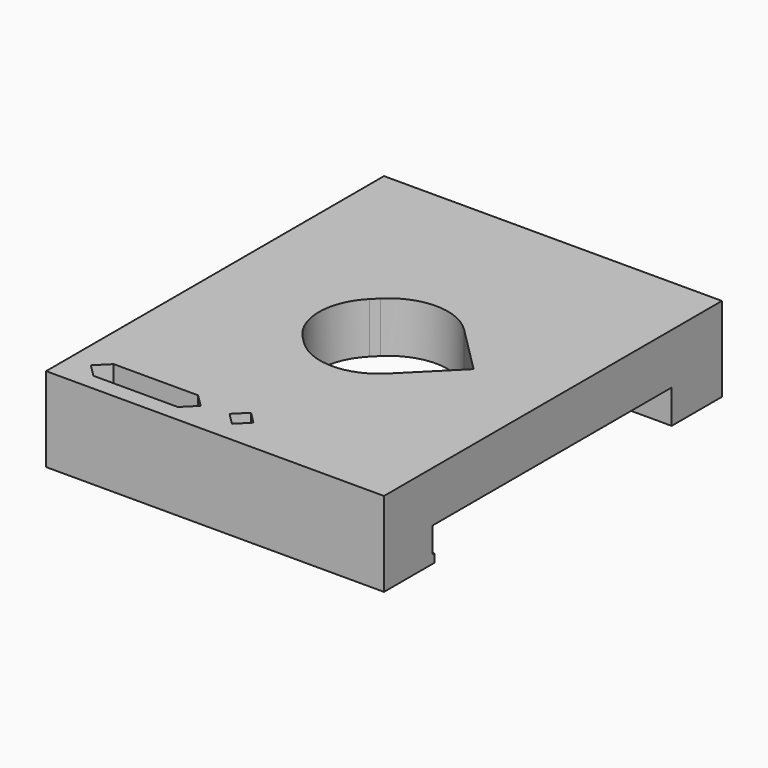
from build123d import *

# Parameters (mm, degrees)
SKETCH_W        = 80
SKETCH_H        = 100
PAD_DEPTH       = 20
SKETCH001_W     = 100
SKETCH001_H     = 70.25
POCKET_DEPTH    = 8
POCKET001_DEPTH = 20.001
POCKET002_DEPTH = 20.001
FILLET_R        = 14
SKETCH004_W     = 200
SKETCH004_H     = 6
POCKET003_DEPTH = 0.5


with BuildPart() as part:
    # Sketch → Pad (new body)
    with BuildSketch(Plane.XY):
        Rectangle(SKETCH_W, SKETCH_H)
    extrude(amount=PAD_DEPTH)

    # Sketch001 → Pocket (cut)
    with BuildSketch(Plane(origin=(0, 0, 0), x_dir=(1, 0, 0), z_dir=(0, 0, -1))):
        Rectangle(SKETCH001_W, SKETCH001_H)
    extrude(amount=-POCKET_DEPTH, mode=Mode.SUBTRACT)

    # Sketch002 → Pocket001 (cut, through all)
    with BuildSketch(Plane(origin=(0, 0, 0), x_dir=(1, 0, 0), z_dir=(0, 0, -1))):
        Polygon((-32, 46), (-12, 46), (-9, 43), (-12, 40), (-32, 40), (-35, 43), align=None)
        Polygon((0, 45), (-2.828427, 42.171573), (0, 39.343146), (2.828427, 42.171573), align=None)
    extrude(amount=-POCKET001_DEPTH, mode=Mode.SUBTRACT)

    # Sketch003 → Pocket002 (cut, through all)
    with BuildSketch(Plane.XY.offset(20)):
        Polygon((-21.213203, 0), (0, 21.213203), (21.213203, 0), (0, -21.213203), align=None)
    extrude(amount=-POCKET002_DEPTH, mode=Mode.SUBTRACT)

    # Fillet
    fillet_edges = [part.edges().sort_by_distance(p)[0] for p in [
        (0, 21.213203, 14),
        (-21.213203, 0, 14),
        (0, -21.213203, 14),
    ]]
    fillet(fillet_edges, radius=FILLET_R)

    # Sketch004 → Pocket003 (cut)
    with BuildSketch(Plane(origin=(0, -35.125, 0), x_dir=(-1, 0, 0), z_dir=(0, 1, 0))):
        with Locations((0, 5)):
            Rectangle(SKETCH004_W, SKETCH004_H)
    extrude(amount=-POCKET003_DEPTH, mode=Mode.SUBTRACT)


solid = part.part
